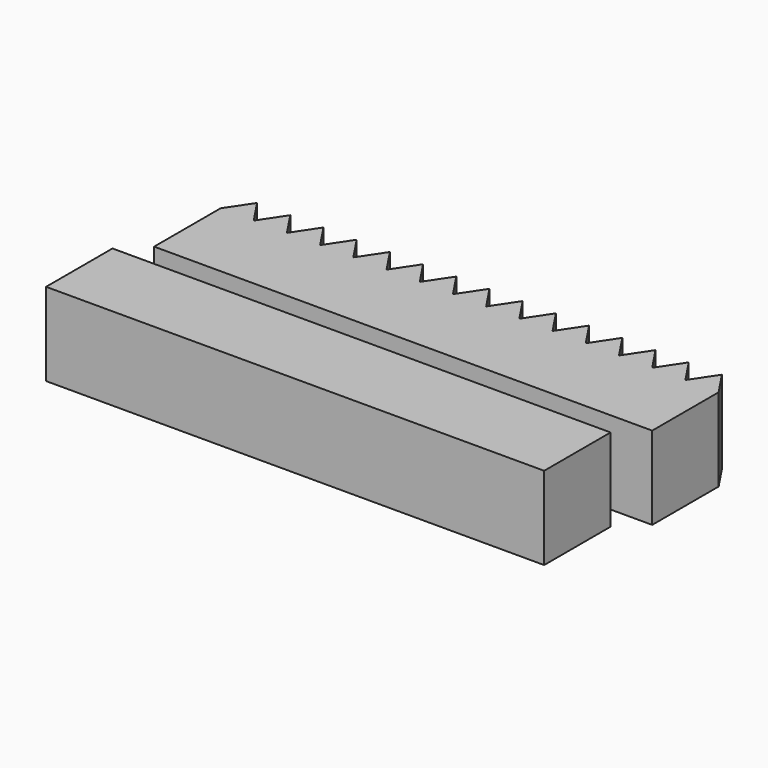
from build123d import *

# Parameters (mm, degrees)
F1_DEPTH = 25.4
F2_W     = 152.4
F2_H     = 25.4
F3_DEPTH = 25.4


with BuildPart() as f1:
    # F0 (on Top) → F1 (new body)
    with BuildSketch(Plane.XY):
        Polygon((-90.636844, 19.805351), (-90.636844, 12.185351), (-85.556844, 12.185351), align=None)
        Polygon((-90.636844, 19.805351), (-95.716844, 12.185351), (-90.636844, 12.185351), align=None)
        Polygon((-80.476844, 19.805351), (-85.556844, 12.185351), (-75.396844, 12.185351), align=None)
        Polygon((-70.316844, 19.805351), (-75.396844, 12.185351), (-65.236844, 12.185351), align=None)
        Polygon((-60.156844, 19.805351), (-65.236844, 12.185351), (-55.076844, 12.185351), align=None)
        Polygon((-49.996844, 19.805351), (-55.076844, 12.185351), (-44.916844, 12.185351), align=None)
        Polygon((-44.916844, 12.185351), (-34.756844, 12.185351), (-39.836844, 19.805351), align=None)
        Polygon((-34.756844, 12.185351), (-24.596844, 12.185351), (-29.676844, 19.805351), align=None)
        Polygon((-24.596844, 12.185351), (-14.436844, 12.185351), (-19.516844, 19.805351), align=None)
        Polygon((-14.436844, 12.185351), (-4.276844, 12.185351), (-9.356844, 19.805351), align=None)
        Polygon((-4.276844, 12.185351), (5.883156, 12.185351), (0.803156, 19.805351), align=None)
        Polygon((5.883156, 12.185351), (16.043156, 12.185351), (10.963156, 19.805351), align=None)
        Polygon((16.043156, 12.185351), (26.203156, 12.185351), (21.123156, 19.805351), align=None)
        Polygon((26.203156, 12.185351), (36.363156, 12.185351), (31.283156, 19.805351), align=None)
        Polygon((36.363156, 12.185351), (46.523156, 12.185351), (41.443156, 19.805351), align=None)
        Polygon((46.523156, 12.185351), (56.683156, 12.185351), (51.603156, 19.805351), align=None)
        Polygon((56.683156, -13.214649), (56.683156, 12.185351), (46.523156, 12.185351), (36.363156, 12.185351), (26.203156, 12.185351), (16.043156, 12.185351), (5.883156, 12.185351), (-4.276844, 12.185351), (-14.436844, 12.185351), (-24.596844, 12.185351), (-34.756844, 12.185351), (-44.916844, 12.185351), (-55.076844, 12.185351), (-65.236844, 12.185351), (-75.396844, 12.185351), (-85.556844, 12.185351), (-90.636844, 12.185351), (-95.716844, 12.185351), (-95.716844, -13.214649), align=None)
    extrude(amount=F1_DEPTH)


with BuildPart() as f3:
    # F2 (on Top) → F3 (new body)
    with BuildSketch(Plane.XY):
        with Locations((-26.693689, -32.867122)):
            Rectangle(F2_W, F2_H)
    extrude(amount=F3_DEPTH)


solid = Compound([f1.part, f3.part])
